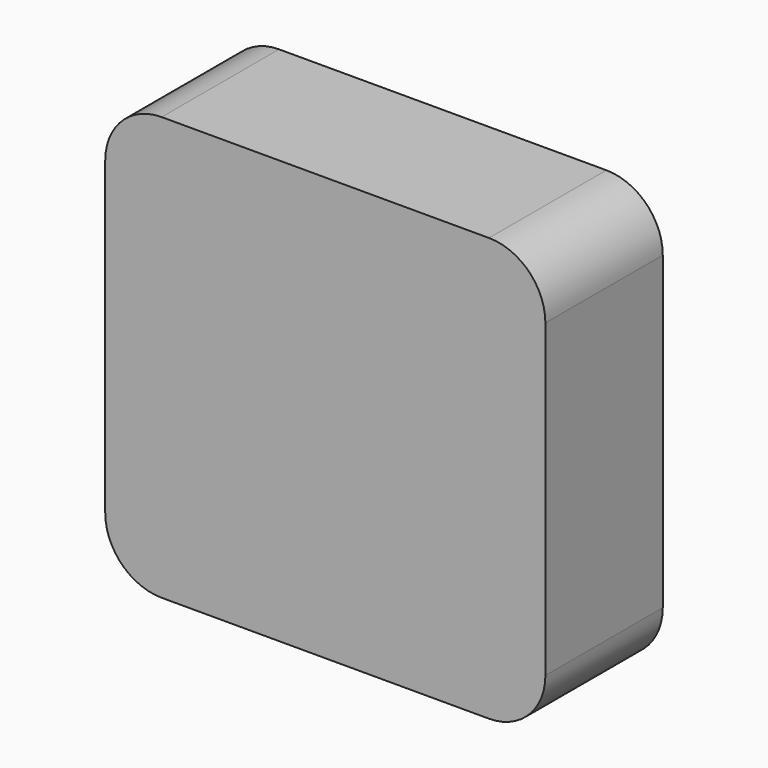
from build123d import *

# Parameters (mm, degrees)
CYLINDER005_W          = 10
CYLINDER005_H          = 26
CYLINDER005_ANGLE      = 90
BOX004_W               = 10
BOX004_H               = 26
BOX004_DEPTH           = 10
CUT002_PLACEMENT_ANGLE = 90
CYLINDER006_W          = 10
CYLINDER006_H          = 26
CYLINDER006_ANGLE      = 90
BOX005_W               = 10
BOX005_H               = 26
BOX005_DEPTH           = 10
CUT003_PLACEMENT_ANGLE = 180
CYLINDER007_W          = 10
CYLINDER007_H          = 26
CYLINDER007_ANGLE      = 90
BOX006_W               = 10
BOX006_H               = 26
BOX006_DEPTH           = 10
CUT004_PLACEMENT_ANGLE = 90
CYLINDER004_W          = 10
CYLINDER004_H          = 26
CYLINDER004_ANGLE      = 90
BOX003_W               = 10
BOX003_H               = 26
BOX003_DEPTH           = 10
BOX002_W               = 78
BOX002_H               = 26
BOX002_DEPTH           = 75


with BuildPart() as cylinder005:
    # Cylinder005 → Cylinder005 (revolve)
    with BuildSketch(Plane(origin=(0, 26, 0), x_dir=(1, 0, 0), z_dir=(0, 0, -1))):
        with Locations((5, 13)):
            Rectangle(CYLINDER005_W, CYLINDER005_H)
    revolve(axis=Axis((0, 26, 0), (0, -1, 0)), revolution_arc=CYLINDER005_ANGLE)


with BuildPart() as cut002:
    # Box004 → Box004 (new body)
    with BuildSketch(Plane.XY):
        with Locations((5, 13)):
            Rectangle(BOX004_W, BOX004_H)
    extrude(amount=BOX004_DEPTH)

    # Cut002: cut Cylinder005
    add(cylinder005.part, mode=Mode.SUBTRACT)


with BuildPart() as cut002_1:
    # Cut002 placement: moved
    add(cut002.part.moved(Location((68, 0, 10))).rotate(Axis((68, 0, 10), (0, 1, 0)), CUT002_PLACEMENT_ANGLE))


with BuildPart() as cylinder006:
    # Cylinder006 → Cylinder006 (revolve)
    with BuildSketch(Plane(origin=(0, 26, 0), x_dir=(1, 0, 0), z_dir=(0, 0, -1))):
        with Locations((5, 13)):
            Rectangle(CYLINDER006_W, CYLINDER006_H)
    revolve(axis=Axis((0, 26, 0), (0, -1, 0)), revolution_arc=CYLINDER006_ANGLE)


with BuildPart() as cut003:
    # Box005 → Box005 (new body)
    with BuildSketch(Plane.XY):
        with Locations((5, 13)):
            Rectangle(BOX005_W, BOX005_H)
    extrude(amount=BOX005_DEPTH)

    # Cut003: cut Cylinder006
    add(cylinder006.part, mode=Mode.SUBTRACT)


with BuildPart() as cut003_1:
    # Cut003 placement: moved
    add(cut003.part.moved(Location((10, 0, 10))).rotate(Axis((10, 0, 10), (0, 1, 0)), CUT003_PLACEMENT_ANGLE))


with BuildPart() as cylinder007:
    # Cylinder007 → Cylinder007 (revolve)
    with BuildSketch(Plane(origin=(0, 26, 0), x_dir=(1, 0, 0), z_dir=(0, 0, -1))):
        with Locations((5, 13)):
            Rectangle(CYLINDER007_W, CYLINDER007_H)
    revolve(axis=Axis((0, 26, 0), (0, -1, 0)), revolution_arc=CYLINDER007_ANGLE)


with BuildPart() as cut004:
    # Box006 → Box006 (new body)
    with BuildSketch(Plane.XY):
        with Locations((5, 13)):
            Rectangle(BOX006_W, BOX006_H)
    extrude(amount=BOX006_DEPTH)

    # Cut004: cut Cylinder007
    add(cylinder007.part, mode=Mode.SUBTRACT)


with BuildPart() as cut004_1:
    # Cut004 placement: moved
    add(cut004.part.moved(Location((10, 0, 65))).rotate(Axis((10, 0, 65), (0, -1, 0)), CUT004_PLACEMENT_ANGLE))


with BuildPart() as cylinder004:
    # Cylinder004 → Cylinder004 (revolve)
    with BuildSketch(Plane(origin=(0, 26, 0), x_dir=(1, 0, 0), z_dir=(0, 0, -1))):
        with Locations((5, 13)):
            Rectangle(CYLINDER004_W, CYLINDER004_H)
    revolve(axis=Axis((0, 26, 0), (0, -1, 0)), revolution_arc=CYLINDER004_ANGLE)


with BuildPart() as v25cuts:
    # Box003 → Box003 (new body)
    with BuildSketch(Plane.XY):
        with Locations((5, 13)):
            Rectangle(BOX003_W, BOX003_H)
    extrude(amount=BOX003_DEPTH)

    # Cut001: cut Cylinder004
    add(cylinder004.part, mode=Mode.SUBTRACT)


with BuildPart() as v25cuts_1:
    # Cut001 placement: moved
    add(v25cuts.part.moved(Location((68, 0, 65))))

    # Fusion004: union Cut002, Cut003, Cut004
    add(cut002_1.part)
    add(cut003_1.part)
    add(cut004_1.part)


with BuildPart() as obj1:
    # Box002 → Box002 (new body)
    with BuildSketch(Plane.XY):
        with Locations((39, 13)):
            Rectangle(BOX002_W, BOX002_H)
    extrude(amount=BOX002_DEPTH)

    # Cut005: cut v25Cuts
    add(v25cuts_1.part, mode=Mode.SUBTRACT)


solid = obj1.part
